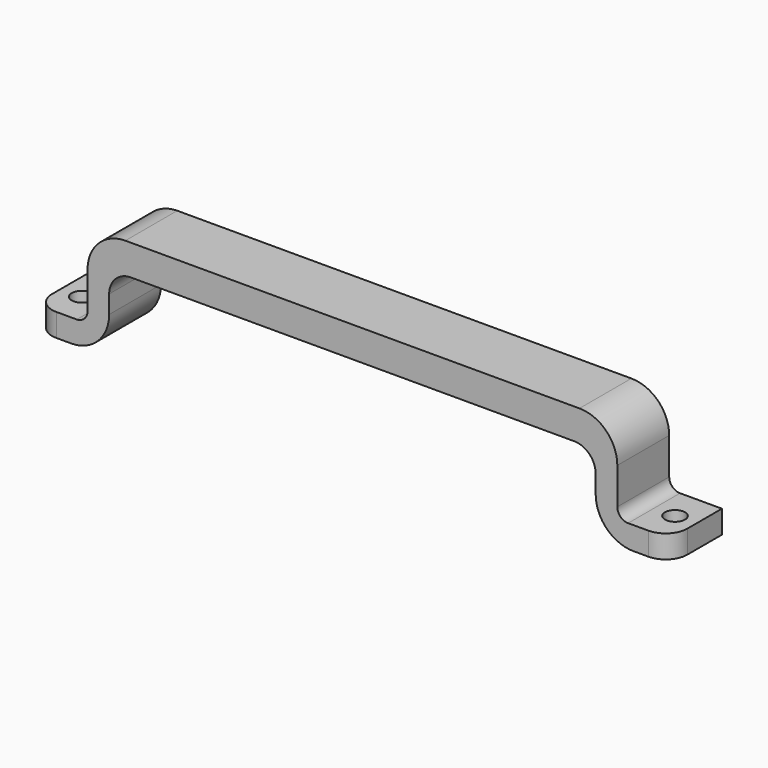
from build123d import *

# Parameters (mm, degrees)
F1_DEPTH = 15.24
F2_R     = 5.08
F5_D     = 4.699


with BuildPart() as f1:
    # F0 (on Front) → F1 (new body)
    with BuildSketch(Plane.XZ):
        with BuildLine():
            Line((53.34, 25.4), (-53.34, 25.4))
            ThreePointArc((-53.34, 25.4), (-59.626179, 22.796179), (-62.23, 16.51))
            Line((-62.23, 16.51), (-62.23, 7.9248))
            ThreePointArc((-62.23, 7.9248), (-62.973949, 6.128749), (-64.77, 5.3848))
            Line((-64.77, 5.3848), (-74.6125, 5.3848))
            Line((-74.6125, 5.3848), (-74.6125, 0))
            Line((-74.6125, 0), (-66.04, 0))
            ThreePointArc((-66.04, 0), (-59.753821, 2.603821), (-57.15, 8.89))
            Line((-57.15, 8.89), (-57.15, 13.1318))
            ThreePointArc((-57.15, 13.1318), (-55.662102, 16.723902), (-52.07, 18.2118))
            Line((-52.07, 18.2118), (52.07, 18.2118))
            ThreePointArc((52.07, 18.2118), (55.662102, 16.723902), (57.15, 13.1318))
            Line((57.15, 13.1318), (57.15, 8.89))
            ThreePointArc((57.15, 8.89), (59.753821, 2.603821), (66.04, 0))
            Line((66.04, 0), (74.6125, 0))
            Line((74.6125, 0), (74.6125, 5.3848))
            Line((74.6125, 5.3848), (64.77, 5.3848))
            ThreePointArc((64.77, 5.3848), (62.973949, 6.128749), (62.23, 7.9248))
            Line((62.23, 7.9248), (62.23, 16.51))
            ThreePointArc((62.23, 16.51), (59.626179, 22.796179), (53.34, 25.4))
        make_face()
    extrude(amount=F1_DEPTH)

    # F2
    f2_edges = [f1.edges().sort_by_distance(p)[0] for p in [
        (-74.6125, -15.24, 2.6924),
        (74.6125, -15.24, 2.6924),
    ]]
    fillet(f2_edges, radius=F2_R)

    # F5 (through all)
    with Locations(Plane.XY.offset(5.3848)):
        with Locations((-69.69125, -7.62), (69.69125, -7.62)):
            Hole(F5_D / 2)


solid = f1.part
